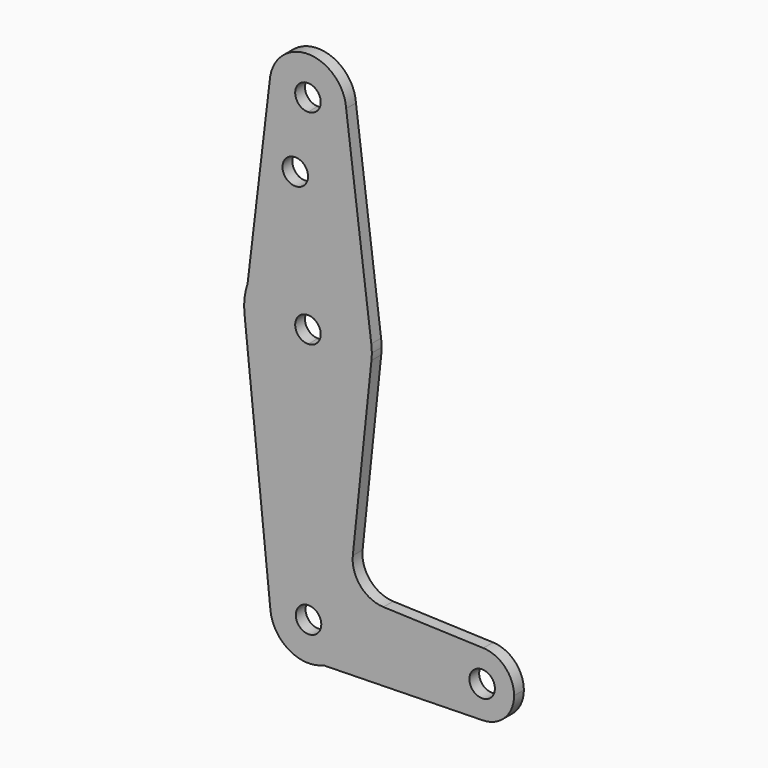
from build123d import *

# Parameters (mm, degrees)
F0_R     = 3.175
F1_DEPTH = 3.048
F2_DEPTH = 3.048


with BuildPart() as f1:
    # F0 (on Front) → F1 (new body)
    with BuildSketch(Plane.XZ):
        with BuildLine():
            Line((-25.7068207094, -15.7371918476), (-32.0568207094, -15.7371918476))
            ThreePointArc((-32.0568207094, -15.7371918476), (-37.4754871246, -17.9836526234), (-35.2357725313, -12.5621943069))
            Line((-35.2357725313, -12.5621943069), (-35.243676175, -6.2121992256))
            ThreePointArc((-35.243676175, -6.2121992256), (-42.3067476163, -9.3598072534), (-44.7069565874, -16.7105494865))
            ThreePointArc((-44.7069565874, -16.7105494865), (-42.7715256136, -21.5577137277), (-38.5722545851, -24.6572325718))
            Line((-38.5722545851, -24.6572325718), (-31.5184048432, -24.5085182926))
            ThreePointArc((-31.5184048432, -24.5085182926), (-27.2915464344, -20.9981489313), (-25.7068207094, -15.7371918476))
        make_face()
        with BuildLine():
            ThreePointArc((-35.243676175, -6.2121992256), (-28.5008214638, -8.9978095202), (-25.7068207094, -15.7371918476))
            Line((-25.7068207094, -15.7371918476), (0.0106792906, -15.7371918476))
            ThreePointArc((0.0106792906, -15.7371918476), (2.439207281, -10.0227247991), (8.2387444617, -7.8050119372))
            Line((8.2387444617, -7.8050119372), (-16.6053678333, -6.8949425967))
            ThreePointArc((-16.6053678333, -6.8949425967), (-22.318122561, -4.1616206877), (-24.2212277935, 1.8786446799))
            Line((-24.2212277935, 1.8786446799), (-19.585576, 46.1080240503))
            ThreePointArc((-19.5855760001, 46.1080240503), (-24.7191267817, 35.9947459003), (-35.2910983536, 31.8880251098))
            Line((-35.2910983536, 31.8880251098), (-35.243676175, -6.2121992256))
        make_face()
        with BuildLine():
            Line((0.0106792906, -15.7371918476), (-25.7068207094, -15.7371918476))
            ThreePointArc((-25.7068207094, -15.7371918476), (-27.2915464344, -20.9981489313), (-31.5184048432, -24.5085182926))
            Line((-31.5184048432, -24.5085182926), (8.1154861351, -23.6729284025))
            ThreePointArc((8.1154861351, -23.6729284025), (2.3949861474, -21.4086953664), (0.0106792906, -15.7371918476))
        make_face()
        with BuildLine():
            ThreePointArc((-44.7069565874, -16.7105494865), (-42.3067476163, -9.3598072534), (-35.243676175, -6.2121992256))
            Line((-35.243676175, -6.2121992256), (-35.2910983536, 31.8880251098))
            ThreePointArc((-35.2910983536, 31.8880251098), (-45.8747899968, 35.8568845069), (-51.1348601679, 45.8617850815))
            Line((-51.1348601679, 45.8617850815), (-44.7069565874, -16.7105494865))
        make_face()
        with BuildLine():
            ThreePointArc((8.2387444617, -7.8050119372), (2.439207281, -10.0227247991), (0.0106792906, -15.7371918476))
            ThreePointArc((0.0106792906, -15.7371918476), (2.3949861474, -21.4086953664), (8.1154861351, -23.6729284025))
            ThreePointArc((8.1154861351, -23.6729284025), (13.6196828094, -21.2903849908), (15.8856792906, -15.7371918476))
            ThreePointArc((15.8856792906, -15.7371918476), (13.662646339, -10.228219838), (8.2387444617, -7.8050119372))
        make_face()
        with BuildLine():
            ThreePointArc((11.1231792906, -15.7371918476), (7.9481792906, -18.9121918476), (4.7731792906, -15.7371918476))
            ThreePointArc((4.7731792906, -15.7371918476), (7.9481792906, -12.5621918476), (11.1231792906, -15.7371918476))
        make_face(mode=Mode.SUBTRACT)
        with BuildLine():
            ThreePointArc((-38.5722545851, -24.6572325718), (-35.031052496, -25.2600757135), (-31.5184048432, -24.5085182926))
            Line((-31.5184048432, -24.5085182926), (-38.5722545851, -24.6572325718))
        make_face()
        with BuildLine():
            Line((-35.3069062682, 44.5885191376), (-35.2910983536, 31.8880251098))
            ThreePointArc((-35.2910983536, 31.8880251098), (-24.7191267817, 35.9947459003), (-19.5855760001, 46.1080240503))
            ThreePointArc((-19.5855760001, 46.1080240503), (-19.5207295738, 46.9342869571), (-19.4990944415, 47.7628081524))
            ThreePointArc((-19.4990944415, 47.7628081524), (-19.5304105811, 48.7594558998), (-19.6242354472, 49.7521715326))
            ThreePointArc((-19.6242354472, 49.7521715326), (-24.8593577584, 59.6563331759), (-35.3306162589, 63.6377486137))
            Line((-35.3306162589, 63.6377486137), (-35.3148083442, 50.9372545858))
            ThreePointArc((-35.3148083442, 50.9372545858), (-33.1081665566, 49.9868126085), (-32.1990944415, 47.7628081524))
            ThreePointArc((-32.1990944415, 47.7628081524), (-33.1054001639, 45.5416257477), (-35.3069062682, 44.5885191376))
        make_face()
        with BuildLine():
            ThreePointArc((-51.1348601679, 45.8617850815), (-45.8747899968, 35.8568845069), (-35.2910983536, 31.8880251098))
            Line((-35.2910983536, 31.8880251098), (-35.3069062682, 44.5885191376))
            ThreePointArc((-35.3069062682, 44.5885191376), (-38.5490919821, 47.7588563305), (-35.3148083442, 50.9372545858))
            Line((-35.3148083442, 50.9372545858), (-35.3306162589, 63.6377486137))
            ThreePointArc((-35.3306162589, 63.6377486137), (-44.5853642043, 60.6921598128), (-50.3924287448, 52.9072478454))
            ThreePointArc((-50.3924287448, 52.9072478454), (-51.1298228873, 49.7051382327), (-51.1921849363, 46.4198122112))
            Line((-51.1921849363, 46.4198122112), (-51.1348601679, 45.8617850815))
        make_face()
        with BuildLine():
            ThreePointArc((-51.1921849363, 46.4198122112), (-51.1659875715, 46.1405454209), (-51.1348601679, 45.8617850815))
            Line((-51.1348601679, 45.8617850815), (-51.1921849363, 46.4198122112))
        make_face()
        with BuildLine():
            Line((-44.8794693462, 99.1738074857), (-50.3924287448, 52.9072478454))
            ThreePointArc((-50.3924287448, 52.9072478454), (-44.5853642043, 60.6921598128), (-35.3306162589, 63.6377486137))
            Line((-35.3306162589, 63.6377486137), (-35.3525850704, 81.2880690454))
            Line((-35.3525850704, 81.2880690454), (-35.3622309417, 89.0378155305))
            ThreePointArc((-35.3622309417, 89.0378155305), (-42.317885742, 92.0428943647), (-44.8794693462, 99.1738074857))
        make_face()
        with Locations((-38.5275875297, 81.2880690424)):
            Circle(F0_R, mode=Mode.SUBTRACT)
        with BuildLine():
            ThreePointArc((-35.3306162589, 63.6377486137), (-24.8593577584, 59.6563331759), (-19.6242354472, 49.7521715326))
            Line((-19.6242354472, 49.7521715326), (-25.8709237189, 99.2074195996))
            ThreePointArc((-25.8709237189, 99.2074195996), (-25.8545473006, 98.885298767), (-25.8490864073, 98.5628081524))
            ThreePointArc((-25.8490864073, 98.5628081524), (-28.6347040799, 91.8318089068), (-35.3622309417, 89.0378155305))
            Line((-35.3622309417, 89.0378155305), (-35.3525850704, 81.2880690454))
            Line((-35.3525850704, 81.2880690454), (-35.3306162589, 63.6377486137))
        make_face()
        with BuildLine():
            ThreePointArc((-25.8709237189, 99.2074195996), (-35.3909290891, 108.0877932613), (-44.8794693462, 99.1738074857))
            ThreePointArc((-44.8794693462, 99.1738074857), (-42.317885742, 92.0428943647), (-35.3622309417, 89.0378155305))
            ThreePointArc((-35.3622309417, 89.0378155305), (-28.6347040799, 91.8318089068), (-25.8490864073, 98.5628081524))
            ThreePointArc((-25.8490864073, 98.5628081524), (-25.8545473006, 98.885298767), (-25.8709237189, 99.2074195996))
        make_face()
        with BuildLine():
            ThreePointArc((-32.1990864073, 98.5628081524), (-33.1276256315, 96.3191417372), (-35.3701345854, 95.3878106118))
            ThreePointArc((-35.3701345854, 95.3878106118), (-37.6205471831, 100.8064745676), (-32.1990864073, 98.5628081524))
        make_face(mode=Mode.SUBTRACT)
    extrude(amount=F1_DEPTH)

    # F0 (on Front) → F2 (join)
    with BuildSketch(Plane.XZ):
        with BuildLine():
            ThreePointArc((-35.2357725313, -12.5621943069), (-32.9881542942, -13.4907310718), (-32.0568207094, -15.7371918476))
            Line((-32.0568207094, -15.7371918476), (-25.7068207094, -15.7371918476))
            ThreePointArc((-25.7068207094, -15.7371918476), (-28.5008214638, -8.9978095202), (-35.243676175, -6.2121992256))
            Line((-35.243676175, -6.2121992256), (-35.2357725313, -12.5621943069))
        make_face()
    extrude(amount=F2_DEPTH)


solid = f1.part
